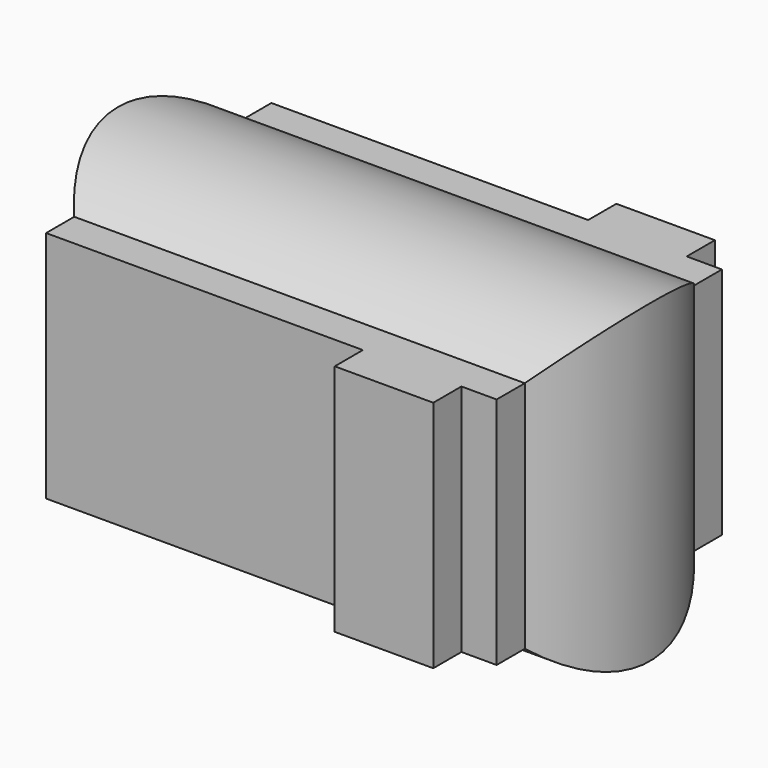
from build123d import *

# Parameters (mm, degrees)
PAD_DEPTH    = 150
PAD001_DEPTH = 100


with BuildPart() as body:
    # Sketch → Pad (new body, symmetric)
    with BuildSketch(Plane.YZ):
        with BuildLine():
            ThreePointArc((30, 33.204857), (0, 44.75), (-30, 33.204857))
            Line((-30, 33.204857), (-50, 33.204857))
            Line((-50, 33.204857), (-50, -33.204857))
            Line((-50, -33.204857), (-30, -33.204857))
            ThreePointArc((-30, -33.204857), (0, -44.75), (30, -33.204857))
            Line((30, -33.204857), (50, -33.204857))
            Line((50, -33.204857), (50, 33.204857))
            Line((50, 33.204857), (30, 33.204857))
        make_face()
    extrude(amount=PAD_DEPTH, both=True)


with BuildPart() as body001:
    # Sketch001 → Pad001 (new body, symmetric)
    with BuildSketch(Plane.XY):
        with BuildLine():
            ThreePointArc((20, -30), (31.545143, 0), (20, 30))
            Line((20, 30), (20, 40))
            Line((20, 40), (10, 40))
            Line((10, 40), (10, 50))
            Line((10, 50), (-18, 50))
            Line((-18, 50), (-18, 40))
            Line((-18, 40), (-108, 40))
            Line((-108, 40), (-108, 30))
            ThreePointArc((-108, 30), (-119.545143, 0), (-108, -30))
            Line((-108, -30), (-108, -40))
            Line((-108, -40), (-18, -40))
            Line((-18, -40), (-18, -50))
            Line((-18, -50), (10, -50))
            Line((10, -50), (10, -40))
            Line((10, -40), (20, -40))
            Line((20, -40), (20, -30))
        make_face()
    extrude(amount=PAD001_DEPTH, both=True)

    # Boolean: intersect Body
    add(body.part, mode=Mode.INTERSECT)


solid = body001.part
